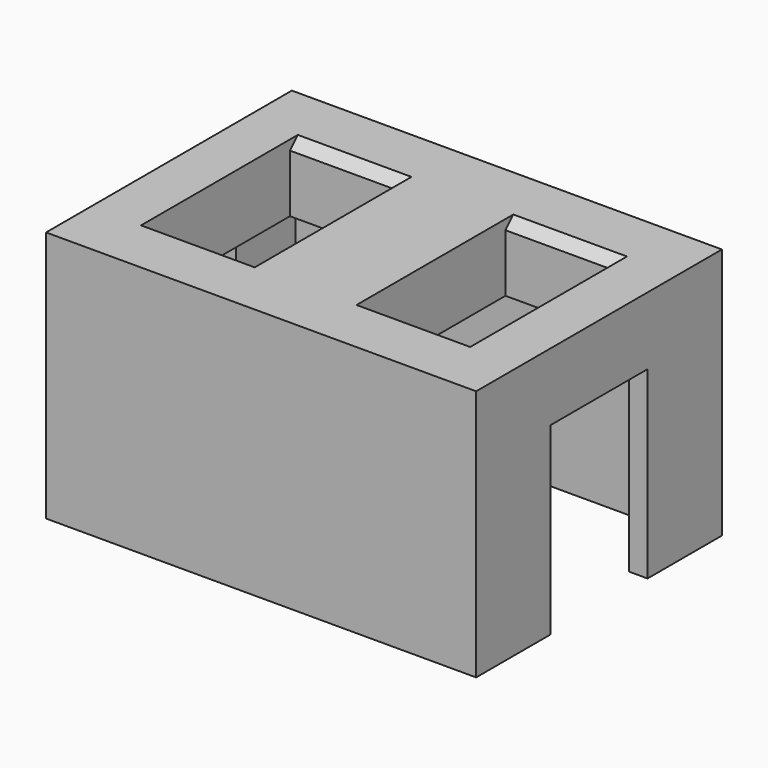
from build123d import *

# Parameters (mm, degrees)
F0_W     = 35
F0_H     = 25
F0_W_2   = 9.25
F0_H_2   = 14.35
F1_DEPTH = 5.5
F3_DEPTH = 15
F4_SIZE  = 0.8


with BuildPart() as f1:
    # F0 (on Top) → F1 (new body)
    with BuildSketch(Plane.XY):
        with Locations((17.5, 12.5)):
            Rectangle(F0_W, F0_H)
        with Locations((8.731327, 12.5)):
            Rectangle(F0_W_2, F0_H_2, mode=Mode.SUBTRACT)
        with Locations((26.268673, 12.5)):
            Rectangle(F0_W_2, F0_H_2, mode=Mode.SUBTRACT)
    extrude(amount=F1_DEPTH)

    # F2 (on face) → F3 (join)
    with BuildSketch(Plane(origin=(0, 0, 0), x_dir=(1, 0, 0), z_dir=(0, 0, -1))):
        Polygon((35, 0), (0, 0), (0, -7.563511), (1.5, -7.563511), (1.5, -1.5), (33.5, -1.5), (33.5, -7.563511), (35, -7.563511), align=None)
        Polygon((1.5, -17.436489), (0, -17.436489), (0, -25), (35, -25), (35, -17.436489), (33.5, -17.436489), (33.5, -23.5), (1.5, -23.5), align=None)
    extrude(amount=F3_DEPTH)

    # F4
    f4_edges = [f1.edges().sort_by_distance(p)[0] for p in [
        (8.731327, 19.675, 5.5),
        (8.731327, 5.325, 5.5),
        (26.268673, 19.675, 5.5),
        (26.268673, 5.325, 5.5),
    ]]
    chamfer(f4_edges, length=F4_SIZE)


solid = f1.part
